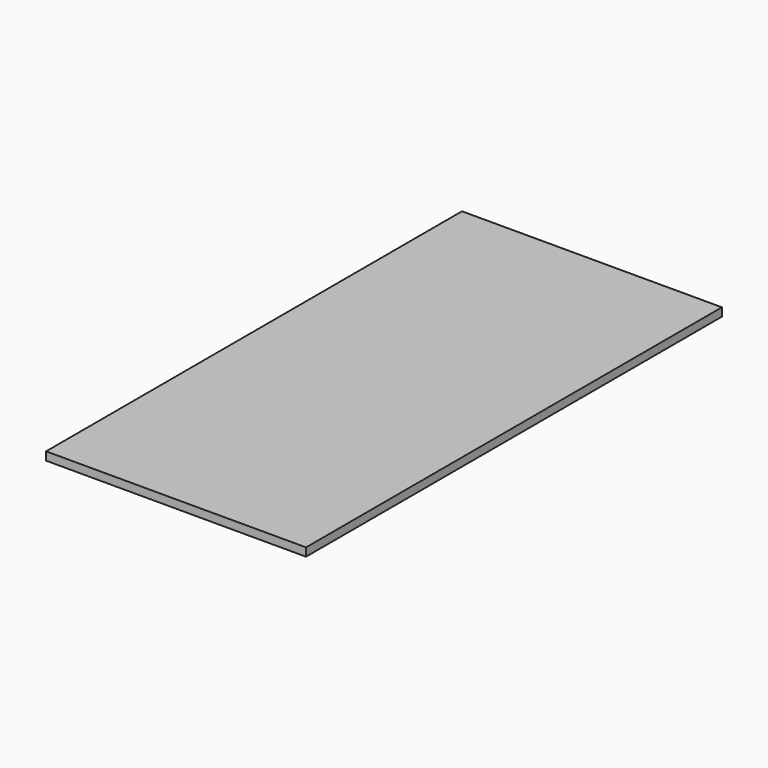
from build123d import *

# Parameters (mm, degrees)
F0_W     = 155.55
F0_H     = 800
F0_W_2   = 88.9
F1_DEPTH = 12.7


with BuildPart() as f1:
    # F0 (on Top) → F1 (new body)
    with BuildSketch(Plane.XY):
        with Locations((-122.225, 0)):
            Rectangle(F0_W, F0_H)
        Rectangle(F0_W_2, F0_H)
        with Locations((122.225, 0)):
            Rectangle(F0_W, F0_H)
    extrude(amount=F1_DEPTH)


solid = f1.part
